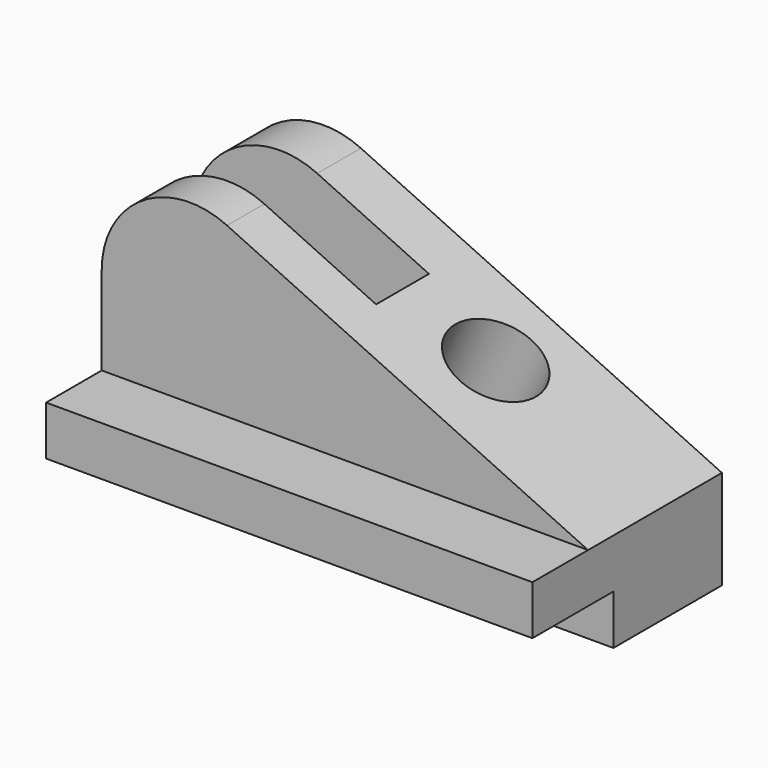
from build123d import *

# Parameters (mm, degrees)
F1_DEPTH = 68.326
F3_DEPTH = 140.2725
F9_DEPTH = 19.05


with BuildPart() as f1:
    # F0 (on Front) → F1 (new body)
    with BuildSketch(Plane.XZ):
        with BuildLine():
            Line((-308.6435369492, 127.387571028), (-308.6435369492, 73.2729100159))
            Line((-308.6435369492, 73.2729100159), (-168.3720369492, 73.2729100159))
            Line((-168.3720369492, 73.2729100159), (-168.3720369492, 101.8479100159))
            Line((-168.3720369492, 101.8479100159), (-272.5090331009, 150.4077888187))
            ThreePointArc((-272.5090331009, 150.4077888187), (-296.8909470012, 148.8097137516), (-308.6435369492, 127.387571028))
        make_face()
    extrude(amount=F1_DEPTH)

    # F2 (on face) → F3 (cut, through all)
    with BuildSketch(Plane.YZ.offset(-168.3720369492)):
        Polygon((-39.116, 87.6239100159), (-76.0061219335, 87.6239100159), (-76.0061219335, 101.8479100159), (-48.26, 101.8479100159), (-48.26, 161.3023877144), (-91.7473509908, 161.3023877144), (-91.7473509908, 73.2729100159), (-39.116, 73.2729100159), align=None)
    extrude(amount=-F3_DEPTH, mode=Mode.SUBTRACT)

    # F5 (on offset) → F6 (revolve, cut)
    with BuildSketch(Plane(origin=(0, -22.225, 0), x_dir=(-1, 0, 0), z_dir=(0, 1, 0))):
        Polygon((226.816497322, 130.7939626652), (214.7088005788, 126.4077344154), (231.1195903604, 91.2146821577), (239.487580328, 103.6207374686), align=None)
    revolve(axis=Axis((-222.9141954696, -22.225, 108.8112082866), (-0.4226182617, 0, -0.906307787)), mode=Mode.SUBTRACT)

    # F8 (on offset) → F9 (cut)
    with BuildSketch(Plane(origin=(0, -15.748, 0), x_dir=(-1, 0, 0), z_dir=(0, 1, 0))):
        Polygon((320.8571528949, 158.3946817508), (229.5432362601, 158.3946817508), (251.4935369492, 111.3221100159), (320.8571528949, 111.3221100159), align=None)
    extrude(amount=-F9_DEPTH, mode=Mode.SUBTRACT)


solid = f1.part
